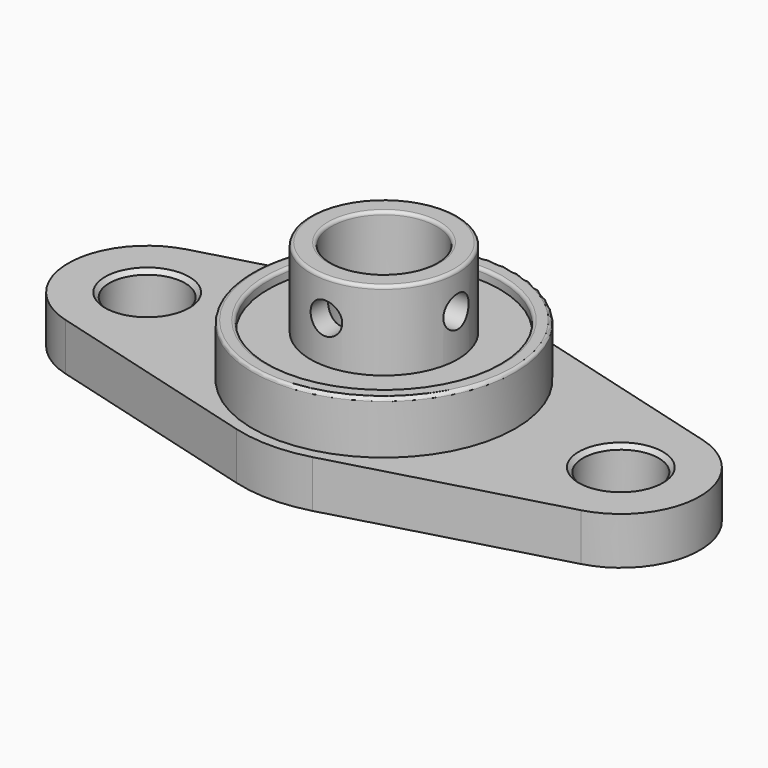
from build123d import *

# Parameters (mm, degrees)
SKETCH_R          = 7
SKETCH_R_2        = 5
PAD_DEPTH         = 16
FILLET001_R       = 0.3
CYLINDER_R        = 1.5
CYLINDER_DEPTH    = 8
CYLINDER001_R     = 1.5
CYLINDER001_DEPTH = 10
SKETCH001_R       = 11
SKETCH001_R_2     = 7
PAD001_DEPTH      = 8.5
SKETCH002_R       = 3.6
SKETCH002_R_2     = 11
PAD002_DEPTH      = 4.5
SKETCH003_R       = 12.5
SKETCH003_R_2     = 11
PAD003_DEPTH      = 5
FILLET_R          = 0.3
CHAMFER_SIZE      = 0.4


with BuildPart() as body:
    # Sketch → Pad (new body)
    with BuildSketch(Plane.XY):
        Circle(SKETCH_R)
        Circle(SKETCH_R_2, mode=Mode.SUBTRACT)
    extrude(amount=PAD_DEPTH)

    # Fillet001
    fillet001_edges = [body.edges().sort_by_distance(p)[0] for p in [
        (-7, 0, 16),
        (-5, 0, 16),
    ]]
    fillet(fillet001_edges, radius=FILLET001_R)

    # Cylinder → Cylinder (cut)
    with BuildSketch(Plane(origin=(0, 0, 12.5), x_dir=(0, 1, 0), z_dir=(1, 0, 0))):
        Circle(CYLINDER_R)
    extrude(amount=CYLINDER_DEPTH, mode=Mode.SUBTRACT)

    # Cylinder001 → Cylinder001 (cut)
    with BuildSketch(Plane(origin=(0, 0, 12.5), x_dir=(1, 0, 0), z_dir=(0, -1, 0))):
        Circle(CYLINDER001_R)
    extrude(amount=CYLINDER001_DEPTH, mode=Mode.SUBTRACT)


with BuildPart() as body001:
    # Sketch001 → Pad001 (new body)
    with BuildSketch(Plane.XY):
        Circle(SKETCH001_R)
        Circle(SKETCH001_R_2, mode=Mode.SUBTRACT)
    extrude(amount=PAD001_DEPTH)


with BuildPart() as body002:
    # Sketch002 → Pad002 (new body)
    with BuildSketch(Plane.XY):
        with BuildLine():
            ThreePointArc((-24.5, 7.228416), (-30, 0), (-24.5, -7.228416))
            Line((-24.5, -7.228416), (-3.6, -13.011149))
            ThreePointArc((-3.6, -13.011149), (0, -13.5), (3.6, -13.011149))
            Line((24.5, -7.228416), (3.6, -13.011149))
            ThreePointArc((24.5, -7.228416), (30, 0), (24.5, 7.228416))
            Line((3.6, 13.011149), (24.5, 7.228416))
            ThreePointArc((3.6, 13.011149), (0, 13.5), (-3.6, 13.011149))
            Line((-3.6, 13.011149), (-24.5, 7.228416))
        make_face()
        with Locations((-22.5, 0)):
            Circle(SKETCH002_R, mode=Mode.SUBTRACT)
        with Locations((22.5, 0)):
            Circle(SKETCH002_R, mode=Mode.SUBTRACT)
        Circle(SKETCH002_R_2, mode=Mode.SUBTRACT)
    extrude(amount=PAD002_DEPTH)

    # Sketch003 (on Face13 of Pad002) → Pad003 (join)
    with BuildSketch(Plane.XY.offset(4.5)):
        Circle(SKETCH003_R)
        Circle(SKETCH003_R_2, mode=Mode.SUBTRACT)
    extrude(amount=PAD003_DEPTH)

    # Fillet
    fillet_edges = [body002.edges().sort_by_distance(p)[0] for p in [
        (-12.5, 0, 9.5),
        (-11, 0, 9.5),
    ]]
    fillet(fillet_edges, radius=FILLET_R)

    # Chamfer
    chamfer_edges = [body002.edges().sort_by_distance(p)[0] for p in [
        (-26.1, 0, 4.5),
        (18.9, 0, 4.5),
        (-26.1, 0, 0),
        (18.9, 0, 0),
    ]]
    chamfer(chamfer_edges, length=CHAMFER_SIZE)


solid = Compound([body.part, body001.part, body002.part])
